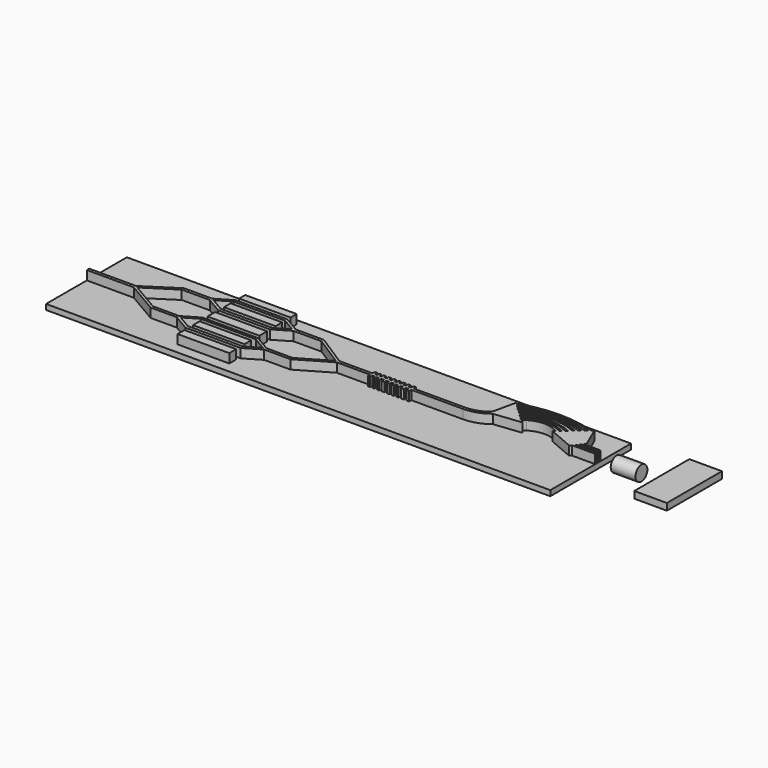
from build123d import *

# Parameters (mm, degrees)
F0_W     = 687.4159425497
F0_H     = 137.6467421651
F1_DEPTH = 7.366
F2_W     = 70.2477358282
F2_H     = 10.4152821004
F2_W_2   = 70.4693309963
F2_H_2   = 11.7448866367
F2_H_3   = 11.3016851246
F2_W_3   = 70.912539959
F2_H_4   = 13.0744990893
F3_DEPTH = 12.446
F5_R     = 10.1248757247
F6_DEPTH = 33.782
F8_W     = 93.8462503254
F8_H     = 9.2772049829
F9_DEPTH = 44.45


with BuildPart() as f1:
    # F0 (on Top) → F1 (new body)
    with BuildSketch(Plane.XY):
        with Locations((141.2395834923, 0.7967613637)):
            Rectangle(F0_W, F0_H)
    extrude(amount=F1_DEPTH)

    # F2 (on face) → F3 (join)
    with BuildSketch(Plane.XY.offset(7.366)):
        with BuildLine():
            Line((-138.6464473724, 5.4549733177), (-156.350389123, 5.4549733177))
            Line((-156.350389123, 5.4549733177), (-202.4683877826, 5.4549733177))
            Line((-202.4683877826, 5.4549733177), (-202.4683877826, 1.4030266823))
            Line((-202.4683877826, 1.4030266823), (-156.604389123, 1.4030266823))
            Line((-156.604389123, 1.4030266823), (-138.4164191999, 1.4030266823))
            Line((-138.4164191999, 1.4030266823), (-95.2862128615, -23.7895939499))
            Line((-95.2862128615, -23.7895939499), (-59.4551898539, -23.7895939499))
            Line((-59.4551898539, -23.7895939499), (-37.7362109721, -36.7106217891))
            Line((-37.7362109721, -36.7106217891), (0, -36.7106217891))
            Line((0, -36.7106217891), (37.7362109721, -36.7106217891))
            Line((37.7362109721, -36.7106217891), (59.4551898539, -23.7895939499))
            Line((59.4551898539, -23.7895939499), (95.2862128615, -23.7895939499))
            Line((95.2862128615, -23.7895939499), (138.4164191999, 1.4030266823))
            Line((138.4164191999, 1.4030266823), (156.604389123, 1.4030266823))
            Line((156.604389123, 1.4030266823), (181.7289195738, 1.4030266823))
            Line((181.7289195738, 1.4030266823), (183.6102209768, 1.4050674429))
            Line((183.6102209768, 1.4050674429), (183.5907600603, -2.286332281))
            Line((183.5907600603, -2.286332281), (186.6615466557, -2.286332281))
            Line((186.6615466557, -2.286332281), (186.6615466557, 1.475383906))
            Line((186.6615466557, 1.475383906), (189.6555773697, 1.475383906))
            Line((189.6555773697, 1.475383906), (189.6555773697, -2.286332281))
            Line((189.6555773697, -2.286332281), (192.6495931826, -2.286332281))
            Line((192.6495931826, -2.286332281), (192.6495931826, 1.475383906))
            Line((192.6495931826, 1.475383906), (195.8739213428, 1.475383906))
            Line((195.8739213428, 1.475383906), (195.8739213428, -2.286332281))
            Line((195.8739213428, -2.286332281), (199.0982495031, -2.286332281))
            Line((199.0982495031, -2.286332281), (199.0982495031, 1.475383906))
            Line((199.0982495031, 1.475383906), (202.4761192284, 1.475383906))
            Line((202.4761192284, 1.475383906), (202.4761192284, -2.286332281))
            Line((202.4761192284, -2.286332281), (206.2378279648, -2.286332281))
            Line((206.2378279648, -2.286332281), (206.2378279648, 1.475383906))
            Line((206.2378279648, 1.475383906), (209.61569769, 1.475383906))
            Line((209.61569769, 1.475383906), (209.61569769, -2.286332281))
            Line((209.61569769, -2.286332281), (213.1471089802, -2.286332281))
            Line((213.1471089802, -2.286332281), (213.1471089802, 1.475383906))
            Line((213.1471089802, 1.475383906), (216.1411396942, 1.475383906))
            Line((216.1411396942, 1.475383906), (216.1411396942, -2.286332281))
            Line((216.1411396942, -2.286332281), (219.1351555071, -2.286332281))
            Line((219.1351555071, -2.286332281), (219.1351555071, 1.475383906))
            Line((219.1351555071, 1.475383906), (222.3594836674, 1.475383906))
            Line((222.3594836674, 1.475383906), (222.3594836674, -2.286332281))
            Line((222.3594836674, -2.286332281), (225.5838118277, -2.286332281))
            Line((225.5838118277, -2.286332281), (225.5838118277, 1.475383906))
            Line((225.5838118277, 1.475383906), (228.9616815529, 1.475383906))
            Line((228.9616815529, 1.475383906), (228.9616815529, -2.286332281))
            Line((228.9616815529, -2.286332281), (232.7233902893, -2.286332281))
            Line((232.7233902893, -2.286332281), (232.7233902893, 1.475383906))
            Line((232.7233902893, 1.475383906), (236.1012600145, 1.475383906))
            Line((236.1012600145, 1.475383906), (236.1012600145, -2.286332281))
            Line((236.1012600145, -2.286332281), (239.8866713047, -2.286332281))
            Line((239.8866713047, -2.286332281), (239.8866713047, 1.5198074768))
            Line((239.8866713047, 1.5198074768), (247.4015206099, 1.5198074768))
            Line((247.4015206099, 1.5198074768), (310.5705082417, 1.5198074768))
            ThreePointArc((310.5705082417, 1.5198074768), (327.2573838306, 4.3735499355), (342.0990709337, 12.5172583585))
            Line((342.0990709337, 12.5172583585), (379.0387098504, 16.6834991227))
            Line((379.0387098504, 16.6834991227), (375.7017479006, 19.6033408288))
            Line((375.7017479006, 19.6033408288), (379.0387098504, 23.4170116286))
            ThreePointArc((379.0387098504, 23.4170116286), (399.0077273508, 29.2230595274), (418.9767448512, 23.4170116286))
            Line((418.9767448512, 23.4170116286), (416.3737297058, 21.2878081948))
            Line((416.3737297058, 21.2878081948), (450.9352743626, 6.4515918493))
            Line((450.9352743626, 6.4515918493), (453.2975118055, 8.5896141827))
            Line((453.2975118055, 8.5896141827), (484.4302535057, 8.5896141827))
            Line((484.4302535057, 8.5896141827), (484.4302535057, 10.8214179054))
            Line((484.4302535057, 10.8214179054), (454.9943455488, 10.8214179054))
            Line((454.9943455488, 10.8214179054), (457.0494721473, 12.6347579062))
            Line((457.0494721473, 12.6347579062), (484.4302535057, 12.6347579062))
            Line((484.4302535057, 12.6347579062), (484.4302535057, 14.448097907))
            Line((484.4302535057, 14.448097907), (457.9519460917, 14.448097907))
            Line((457.9519460917, 14.448097907), (460.04427444, 16.5404137224))
            Line((460.04427444, 16.5404137224), (484.4302535057, 16.5404137224))
            Line((484.4302535057, 16.5404137224), (484.4302535057, 18.3537546545))
            Line((484.4302535057, 18.3537546545), (461.2901464378, 18.3537546545))
            Line((461.2901464378, 18.3537546545), (463.6734724045, 20.1696325094))
            Line((463.6734724045, 20.1696325094), (450.5897462368, 50.3342226148))
            Line((450.5897462368, 50.3342226148), (447.8478631112, 48.0109341443))
            ThreePointArc((447.8478631112, 48.0109341443), (399.0077273508, 55.560682533), (350.1675915904, 48.0109341443))
            Line((350.1675915904, 48.0109341443), (348.1977880001, 45.759730041))
            Line((348.1977880001, 45.759730041), (345.6249833107, 48.0109341443))
            Line((345.6249833107, 48.0109341443), (338.5765808677, 16.2848711826))
            ThreePointArc((338.5765808677, 16.2848711826), (325.4895121313, 8.2912011884), (310.40969491, 5.5038654245))
            Line((310.40969491, 5.5038654245), (247.4015206099, 5.5038654245))
            Line((247.4015206099, 5.5038654245), (239.8866713047, 5.5038654245))
            Line((239.8866713047, 5.5038654245), (239.8866713047, 9.3539087102))
            Line((239.8866713047, 9.3539087102), (236.3552600145, 9.3539087102))
            Line((236.3552600145, 9.3539087102), (236.3552600145, 5.5921925232))
            Line((236.3552600145, 5.5921925232), (232.9773902893, 5.5921925232))
            Line((232.9773902893, 5.5921925232), (232.9773902893, 9.3539087102))
            Line((232.9773902893, 9.3539087102), (229.2156815529, 9.3539087102))
            Line((229.2156815529, 9.3539087102), (229.2156815529, 5.5921925232))
            Line((229.2156815529, 5.5921925232), (225.8378118277, 5.5921925232))
            Line((225.8378118277, 5.5921925232), (225.8378118277, 9.3539087102))
            Line((225.8378118277, 9.3539087102), (222.6134836674, 9.3539087102))
            Line((222.6134836674, 9.3539087102), (222.6134836674, 5.5921925232))
            Line((222.6134836674, 5.5921925232), (219.3891555071, 5.5921925232))
            Line((219.3891555071, 5.5921925232), (219.3891555071, 9.3539087102))
            Line((219.3891555071, 9.3539087102), (216.3951396942, 9.3539087102))
            Line((216.3951396942, 9.3539087102), (216.3951396942, 5.5921925232))
            Line((216.3951396942, 5.5921925232), (213.4011089802, 5.5921925232))
            Line((213.4011089802, 5.5921925232), (213.4011089802, 9.3539087102))
            Line((213.4011089802, 9.3539087102), (209.86969769, 9.3539087102))
            Line((209.86969769, 9.3539087102), (209.86969769, 5.5921925232))
            Line((209.86969769, 5.5921925232), (206.4918279648, 5.5921925232))
            Line((206.4918279648, 5.5921925232), (206.4918279648, 9.3539087102))
            Line((206.4918279648, 9.3539087102), (202.7301192284, 9.3539087102))
            Line((202.7301192284, 9.3539087102), (202.7301192284, 5.5921925232))
            Line((202.7301192284, 5.5921925232), (199.3522495031, 5.5921925232))
            Line((199.3522495031, 5.5921925232), (199.3522495031, 9.3539087102))
            Line((199.3522495031, 9.3539087102), (196.1279213428, 9.3539087102))
            Line((196.1279213428, 9.3539087102), (196.1279213428, 5.5921925232))
            Line((196.1279213428, 5.5921925232), (192.9035931826, 5.5921925232))
            Line((192.9035931826, 5.5921925232), (192.9035931826, 9.3539087102))
            Line((192.9035931826, 9.3539087102), (189.9095773697, 9.3539087102))
            Line((189.9095773697, 9.3539087102), (189.9095773697, 5.5921925232))
            Line((189.9095773697, 5.5921925232), (186.9155466557, 5.5921925232))
            Line((186.9155466557, 5.5921925232), (186.9155466557, 9.3539087102))
            Line((186.9155466557, 9.3539087102), (183.8642209768, 9.3539087102))
            Line((183.8642209768, 9.3539087102), (183.8642209768, 5.4465960711))
            Line((183.8642209768, 5.4465960711), (181.7528605461, 5.4549733177))
            Line((181.7528605461, 5.4549733177), (156.350389123, 5.4549733177))
            Line((156.350389123, 5.4549733177), (138.6464473724, 5.4549733177))
            Line((138.6464473724, 5.4549733177), (95.2792865602, 33.3002579742))
            Line((95.2792865602, 33.3002579742), (57.0580437779, 33.3002579742))
            Line((57.0580437779, 33.3002579742), (35.3390648961, 45.9531582892))
            Line((35.3390648961, 45.9531582892), (0, 45.9531582892))
            Line((0, 45.9531582892), (-35.3390648961, 45.9531582892))
            Line((-35.3390648961, 45.9531582892), (-57.0580437779, 33.3002579742))
            Line((-57.0580437779, 33.3002579742), (-95.2792865602, 33.3002579742))
            Line((-95.2792865602, 33.3002579742), (-138.6464473724, 5.4549733177))
        make_face()
        Polygon((-37.8100783697, -32.3486477731), (-55.9369349054, -21.5858277528), (-37.8100783697, -10.8230058698), (0, -10.8230058698), (37.8100783697, -10.8230058698), (55.9369349054, -21.5858277528), (37.8100783697, -32.3486477731), (0, -32.3486477731), align=None, mode=Mode.SUBTRACT)
        Polygon((-135.3401315516, 3.4820322821), (-95.2862128615, 29.1999429464), (-57.0580437779, 29.1999429464), (-35.3390648961, 16.2789151073), (0, 16.2789151073), (35.3390648961, 16.2789151073), (57.0580437779, 29.1999429464), (95.2862128615, 29.1999429464), (135.3401315516, 3.4820322821), (95.2862128615, -19.913709683), (59.4551898539, -19.913709683), (37.7362109721, -7.260809368), (0, -7.260809368), (-37.7362109721, -7.260809368), (-59.4551898539, -19.913709683), (-95.2862128615, -19.913709683), align=None, mode=Mode.SUBTRACT)
        Polygon((-35.3586226702, 20.5749068409), (-53.4854792058, 31.3377268612), (-35.3586226702, 42.1005487442), (0, 42.1005487442), (35.3586226702, 42.1005487442), (53.4854792058, 31.3377268612), (35.3586226702, 20.5749068409), (0, 20.5749068409), align=None, mode=Mode.SUBTRACT)
        with BuildLine():
            Line((370.6372472565, 23.5322912479), (374.053896924, 27.4370337251))
            ThreePointArc((374.053896924, 27.4370337251), (399.0077273508, 33.7810246324), (423.9615577776, 27.4370337251))
            Line((423.9615577776, 27.4370337251), (421.708929064, 25.8076728149))
            ThreePointArc((421.708929064, 25.8076728149), (399.0077273508, 31.9265013842), (376.3065256376, 25.8076728149))
            Line((376.3065256376, 25.8076728149), (372.7205432622, 21.7094072429))
            Line((372.7205432622, 21.7094072429), (370.6372472565, 23.5322912479))
        make_face(mode=Mode.SUBTRACT)
        with BuildLine():
            Line((365.6382056992, 28.3170708711), (368.6322219076, 31.7388036808))
            ThreePointArc((368.6322219076, 31.7388036808), (399.0077273508, 38.526410097), (429.383232794, 31.7388036808))
            Line((429.383232794, 31.7388036808), (426.7392740049, 29.867535424))
            ThreePointArc((426.7392740049, 29.867535424), (399.0077273508, 36.4081558373), (371.2761806967, 29.867535424))
            Line((371.2761806967, 29.867535424), (368.0630232644, 26.1953555015))
            Line((368.0630232644, 26.1953555015), (365.6382056992, 28.3170708711))
        make_face(mode=Mode.SUBTRACT)
        with BuildLine():
            Line((360.4813304683, 33.5443242144), (363.4392711441, 36.9248278439))
            ThreePointArc((363.4392711441, 36.9248278439), (399.0077273508, 44.2750490819), (434.5761835575, 36.9248278439))
            Line((434.5761835575, 36.9248278439), (432.3772490025, 35.0923612714))
            ThreePointArc((432.3772490025, 35.0923612714), (399.0077273508, 42.2705737087), (365.6382056992, 35.0923612714))
            Line((365.6382056992, 35.0923612714), (362.6348697567, 31.6599773371))
            Line((362.6348697567, 31.6599773371), (360.4813304683, 33.5443242144))
        make_face(mode=Mode.SUBTRACT)
        with BuildLine():
            Line((355.3299033536, 38.152305195), (358.0891265806, 41.3057031687))
            ThreePointArc((358.0891265806, 41.3057031687), (399.0077273508, 48.9346794019), (439.926328121, 41.3057031687))
            Line((439.926328121, 41.3057031687), (436.997769417, 39.1854137116))
            ThreePointArc((436.997769417, 39.1854137116), (399.0077273508, 46.6356083993), (361.0176852847, 39.1854137116))
            Line((361.0176852847, 39.1854137116), (358.0393189878, 35.7815665152))
            Line((358.0393189878, 35.7815665152), (355.3299033536, 38.152305195))
        make_face(mode=Mode.SUBTRACT)
        with BuildLine():
            Line((350.1675915904, 43.2099050709), (352.5468626356, 45.9290719797))
            ThreePointArc((352.5468626356, 45.9290719797), (399.0077273508, 53.6790820799), (445.468592066, 45.9290719797))
            Line((445.468592066, 45.9290719797), (442.4422114296, 43.5071010637))
            ThreePointArc((442.4422114296, 43.5071010637), (399.0077273508, 51.1039718638), (355.573243272, 43.5071010637))
            Line((355.573243272, 43.5071010637), (353.0819166526, 40.6598706415))
            Line((353.0819166526, 40.6598706415), (350.1675915904, 43.2099050709))
        make_face(mode=Mode.SUBTRACT)
        with Locations((0.3059636801, 56.5521437675)):
            Rectangle(F2_W, F2_H)
        with Locations((0.4167687148, -47.6006492972)):
            Rectangle(F2_W_2, F2_H_2)
        with Locations((0.2590809017, 31.4086992294)):
            Rectangle(F2_W, F2_H_3)
        with Locations((0.1951642334, 4.475746071)):
            Rectangle(F2_W_3, F2_H_4)
        with Locations((0.2476762958, -21.5369272709)):
            Rectangle(F2_W, F2_H_3)
    extrude(amount=F3_DEPTH)


with BuildPart() as f6:
    # F5 (on offset) → F6 (new body)
    with BuildSketch(Plane.YZ.offset(510.3475547671)):
        with Locations((13.3356386796, 14.053937979)):
            Circle(F5_R)
    extrude(amount=F6_DEPTH)


with BuildPart() as f9:
    # F8 (on offset) → F9 (new body)
    with BuildSketch(Plane.YZ.offset(569.5295547671)):
        with Locations((16.2750463933, 14.078442473)):
            Rectangle(F8_W, F8_H)
    extrude(amount=F9_DEPTH)


solid = Compound([f1.part, f6.part, f9.part])
